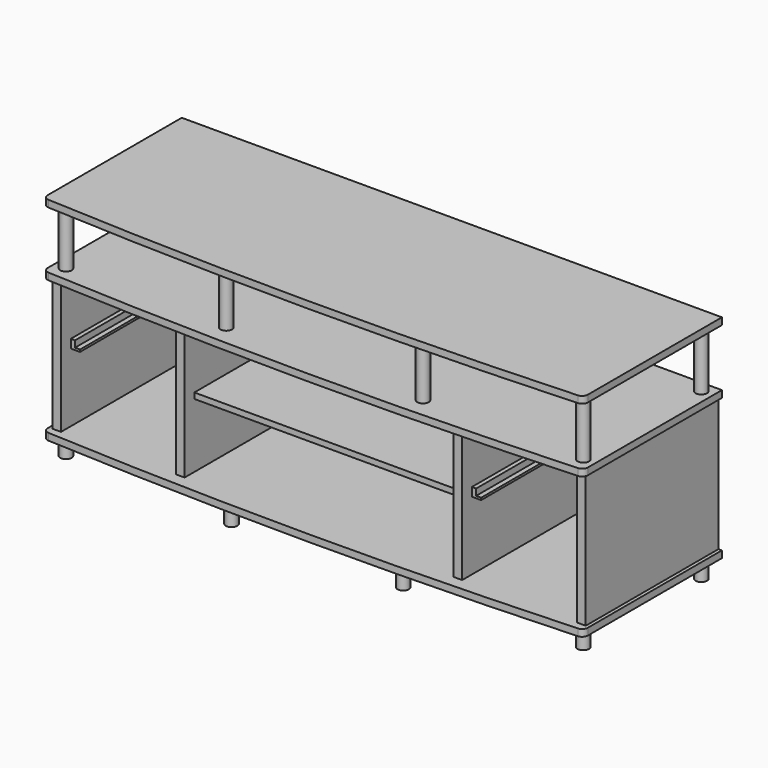
from build123d import *

# Parameters (mm, degrees)
F1_DEPTH  = 15.24
F4_R      = 12.7
F5_DEPTH  = 127
F8_W      = 19.05
F8_H      = 368.3
F9_DEPTH  = 297.942
F11_DEPTH = 88.9
F12_R     = 12.7
F13_DEPTH = 38.1
F14_DEPTH = 127
F16_DEPTH = 11.1125
F17_DEPTH = 11.1125
F19_DEPTH = 400.051
F20_W     = 330.2
F20_H     = 12.7
F21_DEPTH = 596.9
F24_DEPTH = 330.2


with BuildPart() as f1:
    # F0 (on Top) → F1 (new body)
    with BuildSketch(Plane.XY):
        with BuildLine():
            Line((593.1309675598, 224.1305482292), (-605.7490324402, 224.1305482292))
            Line((-605.7490324402, 224.1305482292), (-605.7490324402, -147.8402112013))
            ThreePointArc((-605.7490324402, -147.8402112013), (-602.2615089914, -156.582080326), (-593.7143433388, -160.5227725123))
            ThreePointArc((-593.7143433388, -160.5227725123), (-6.3090324402, -175.9194517708), (581.0962784585, -160.5227725123))
            ThreePointArc((581.0962784585, -160.5227725123), (589.643444111, -156.582080326), (593.1309675598, -147.8402112013))
            Line((593.1309675598, -147.8402112013), (593.1309675598, 224.1305482292))
        make_face()
    extrude(amount=F1_DEPTH)


with BuildPart() as f3_1:
    # F3: instance of F1
    add(f1.part.mirror(Plane.XY.offset(-63.5)))


with BuildPart() as f5:
    # F4 (on face) → F5 (new body)
    with BuildSketch(Plane.XY.offset(-127)):
        with Locations((-580.3490324402, -128.7727725123)):
            Circle(F4_R)
    extrude(amount=F5_DEPTH)


with BuildPart() as f5b:
    # F4 (on face) → F5, piece 2 (new body)
    with BuildSketch(Plane.XY.offset(-127)):
        with Locations((-580.3490324402, 198.7305482292)):
            Circle(F4_R)
    extrude(amount=F5_DEPTH)


with BuildPart() as f5c:
    # F4 (on face) → F5, piece 3 (new body)
    with BuildSketch(Plane.XY.offset(-127)):
        with Locations((567.7309675598, 198.7305482292)):
            Circle(F4_R)
    extrude(amount=F5_DEPTH)


with BuildPart() as f5d:
    # F4 (on face) → F5, piece 4 (new body)
    with BuildSketch(Plane.XY.offset(-127)):
        with Locations((567.7309675598, -128.7727725123)):
            Circle(F4_R)
    extrude(amount=F5_DEPTH)


with BuildPart() as f7_1:
    # F7: instance of F3_1
    add(f3_1.part.mirror(Plane(origin=(-6.3090324402, 26.7720476181, -291.211), x_dir=(1, 0, 0), z_dir=(0, 0, -1))))

    # F10: F5d, F5c, F5b, F5 across plane
    add(f5d.part.mirror(Plane(origin=(-6.3090324402, 26.7720476181, -291.211), x_dir=(1, 0, 0), z_dir=(0, 0, -1))))
    add(f5c.part.mirror(Plane(origin=(-6.3090324402, 26.7720476181, -291.211), x_dir=(1, 0, 0), z_dir=(0, 0, -1))))
    add(f5b.part.mirror(Plane(origin=(-6.3090324402, 26.7720476181, -291.211), x_dir=(1, 0, 0), z_dir=(0, 0, -1))))
    add(f5.part.mirror(Plane(origin=(-6.3090324402, 26.7720476181, -291.211), x_dir=(1, 0, 0), z_dir=(0, 0, -1))))

    # F11 (cut): faces of the model
    f11_faces = [f7_1.faces().sort_by_distance(p)[0] for p in [
        (567.7309675598, -128.7727725123, -582.422),
        (567.7309675598, 198.7305482292, -582.422),
        (-580.3490324402, 198.7305482292, -582.422),
        (-580.3490324402, -128.7727725123, -582.422),
    ]]
    extrude(f11_faces, amount=-F11_DEPTH, mode=Mode.SUBTRACT)

    # F12 (on face) → F13 (join)
    with BuildSketch(Plane(origin=(0, 0, -455.422), x_dir=(1, 0, 0), z_dir=(0, 0, -1))):
        with Locations((184.1909675598, 148.8590687513)):
            Circle(F12_R)
        with Locations((-196.8090324402, 148.8590687513)):
            Circle(F12_R)
        with Locations((184.1909675598, -198.7305482292)):
            Circle(F12_R)
        with Locations((-196.8090324402, -198.7305482292)):
            Circle(F12_R)
    extrude(amount=F13_DEPTH)


with BuildPart() as f9:
    # F8 (on face) → F9 (new body)
    with BuildSketch(Plane.XY.offset(-440.182)):
        with Locations((-314.2840324402, 39.9805482292)):
            Rectangle(F8_W, F8_H)
    extrude(amount=F9_DEPTH)


with BuildPart() as f9b:
    # F8 (on face) → F9, piece 2 (new body)
    with BuildSketch(Plane.XY.offset(-440.182)):
        with Locations((-588.6040324402, 39.9805482292)):
            Rectangle(F8_W, F8_H)
    extrude(amount=F9_DEPTH)


with BuildPart() as f9c:
    # F8 (on face) → F9, piece 3 (new body)
    with BuildSketch(Plane.XY.offset(-440.182)):
        with Locations((301.6659675598, 39.9805482292)):
            Rectangle(F8_W, F8_H)
    extrude(amount=F9_DEPTH)


with BuildPart() as f9d:
    # F8 (on face) → F9, piece 4 (new body)
    with BuildSketch(Plane.XY.offset(-440.182)):
        with Locations((575.9859675598, 39.9805482292)):
            Rectangle(F8_W, F8_H)
    extrude(amount=F9_DEPTH)


with BuildPart() as f14:
    # F4 (on face) → F14 (new body)
    with BuildSketch(Plane.XY.offset(-127)):
        with Locations((-224.7490324402, -128.7727725123)):
            Circle(F4_R)
    extrude(amount=F14_DEPTH)


with BuildPart() as f14b:
    # F4 (on face) → F14, piece 2 (new body)
    with BuildSketch(Plane.XY.offset(-127)):
        with Locations((212.1309675598, -128.7727725123)):
            Circle(F4_R)
    extrude(amount=F14_DEPTH)


with BuildPart() as f14c:
    # F4 (on face) → F14, piece 3 (new body)
    with BuildSketch(Plane.XY.offset(-127)):
        with Locations((212.1309675598, 198.7305482292)):
            Circle(F4_R)
    extrude(amount=F14_DEPTH)


with BuildPart() as f14d:
    # F4 (on face) → F14, piece 4 (new body)
    with BuildSketch(Plane.XY.offset(-127)):
        with Locations((-224.7490324402, 198.7305482292)):
            Circle(F4_R)
    extrude(amount=F14_DEPTH)


with BuildPart() as f16_tool:
    # F15 (on face) → F16 (new body)
    with BuildSketch(Plane(origin=(0, 224.1305482292, 0), x_dir=(-1, 0, 0), z_dir=(0, 1, 0))):
        Polygon((-574.3984675598, -134.3025), (-574.3984675598, -142.24), (-566.4609675598, -142.24), (-566.4609675598, -440.182), (-574.3984675598, -440.182), (-574.3984675598, -448.1195), (587.0165340424, -448.1195), (587.0165340424, -134.3025), align=None)
        Polygon((-574.3984675598, -134.3025), (-574.3984675598, -142.24), (-566.4609675598, -142.24), (-566.4609675598, -440.182), (-574.3984675598, -440.182), (-574.3984675598, -448.1195), (587.0165340424, -448.1195), (587.0165340424, -134.3025), align=None)
    extrude(amount=-F16_DEPTH)


with BuildPart() as f3_1_1:
    add(f3_1.part)

    # F16: cut by f16_tool
    add(f16_tool.part, mode=Mode.SUBTRACT)



with BuildPart() as f7_1_1:
    add(f7_1.part)

    # F16: cut by f16_tool
    add(f16_tool.part, mode=Mode.SUBTRACT)


with BuildPart() as f9_1:
    add(f9.part)

    # F16: cut by f16_tool
    add(f16_tool.part, mode=Mode.SUBTRACT)


with BuildPart() as f9b_1:
    add(f9b.part)

    # F16: cut by f16_tool
    add(f16_tool.part, mode=Mode.SUBTRACT)


with BuildPart() as f9c_1:
    add(f9c.part)

    # F16: cut by f16_tool
    add(f16_tool.part, mode=Mode.SUBTRACT)


with BuildPart() as f3_1_2:
    add(f3_1_1.part)

    add(f7_1_1.part)  # F17 merges F7_1

    add(f9_1.part)  # F17 merges F9

    add(f9b_1.part)  # F17 merges F9b

    add(f9c_1.part)  # F17 merges F9c

    add(f9d.part)  # F17 merges F9d
    # F15 (on face) → F17 (join)
    with BuildSketch(Plane(origin=(0, 224.1305482292, 0), x_dir=(-1, 0, 0), z_dir=(0, 1, 0))):
        Polygon((-574.3984675598, -134.3025), (-574.3984675598, -142.24), (-566.4609675598, -142.24), (-566.4609675598, -440.182), (-574.3984675598, -440.182), (-574.3984675598, -448.1195), (587.0165340424, -448.1195), (587.0165340424, -134.3025), align=None)
        Polygon((-574.3984675598, -134.3025), (-574.3984675598, -142.24), (-566.4609675598, -142.24), (-566.4609675598, -440.182), (-574.3984675598, -440.182), (-574.3984675598, -448.1195), (587.0165340424, -448.1195), (587.0165340424, -134.3025), align=None)
    extrude(amount=-F17_DEPTH)

    # F18 (on face) → F19 (cut, through all)
    with BuildSketch(Plane(origin=(0, 224.1305482292, 0), x_dir=(-1, 0, 0), z_dir=(0, 1, 0))):
        with BuildLine():
            ThreePointArc((-10.3789698601, -370.8245055437), (6.2897801399, -387.4932555437), (22.9585301399, -370.8245055437))
            Line((22.9585301399, -370.8245055437), (22.9585301399, -142.2245055437))
            Line((22.9585301399, -142.2245055437), (-10.3789698601, -142.2245055437))
            Line((-10.3789698601, -142.2245055437), (-10.3789698601, -370.8245055437))
        make_face()
    extrude(amount=-F19_DEPTH, mode=Mode.SUBTRACT)

    # F20 (on face) → F21 (join)
    with BuildSketch(Plane(origin=(292.1409675598, 0, 0), x_dir=(0, -1, 0), z_dir=(-1, 0, 0))):
        with Locations((-47.9180482292, -291.211)):
            Rectangle(F20_W, F20_H)
    extrude(amount=F21_DEPTH)

    # F23 (on face) → F24 (join)
    with BuildSketch(Plane.XZ.offset(-213.0180482292)):
        Polygon((-323.8090324402, -288.29), (-323.8090324402, -269.24), (-333.2642428398, -269.24), (-333.2642428398, -283.5275), (-344.3767428398, -283.5275), (-344.3767428398, -288.29), align=None)
        Polygon((-569.6238220406, -269.24), (-579.0790324402, -269.24), (-579.0790324402, -288.29), (-558.5113220406, -288.29), (-558.5113220406, -283.5275), (-569.6238220406, -283.5275), align=None)
        Polygon((320.6468866959, -269.24), (311.1218866959, -269.24), (311.1218866959, -288.29), (331.7593866959, -288.29), (331.7593866959, -283.5275), (320.6468866959, -283.5275), align=None)
        Polygon((566.5314658967, -288.29), (566.5314658967, -269.24), (557.0064658967, -269.24), (557.0064658967, -283.5275), (545.8939658967, -283.5275), (545.8939658967, -288.29), align=None)
    extrude(amount=F24_DEPTH)


solid = Compound([f1.part, f5.part, f5b.part, f5c.part, f5d.part, f14.part, f14b.part, f14c.part, f14d.part, f3_1_2.part])
